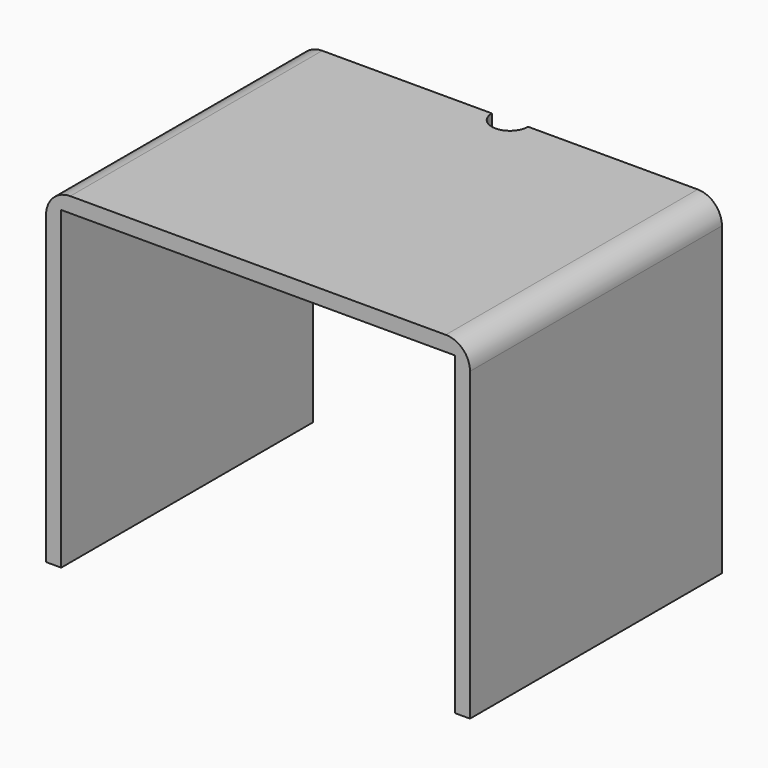
from build123d import *

# Parameters (mm, degrees)
F0_W     = 3.175
F0_H     = 66.04
F1_DEPTH = 3.175
F2_DEPTH = 66.04
F3_R     = 5.08


with BuildPart() as f1:
    # F0 (on Top) → F1 (new body)
    with BuildSketch(Plane.XY):
        with Locations((42.8625, 0)):
            Rectangle(F0_W, F0_H)
        with Locations((-42.8625, 0)):
            Rectangle(F0_W, F0_H)
        with BuildLine():
            Line((41.275, -33.02), (41.275, 33.02))
            Line((41.275, 33.02), (3.81, 33.02))
            ThreePointArc((3.81, 33.02), (0, 29.21), (-3.81, 33.02))
            Line((-3.81, 33.02), (-41.275, 33.02))
            Line((-41.275, 33.02), (-41.275, -33.02))
            Line((-41.275, -33.02), (41.275, -33.02))
        make_face()
    extrude(amount=F1_DEPTH)

    # F0 (on Top) → F2 (join)
    with BuildSketch(Plane.XY):
        with Locations((-42.8625, 0)):
            Rectangle(F0_W, F0_H)
        with Locations((42.8625, 0)):
            Rectangle(F0_W, F0_H)
    extrude(amount=-F2_DEPTH)

    # F3
    f3_edges = [f1.edges().sort_by_distance(p)[0] for p in [
        (-44.45, 0, 3.175),
        (44.45, 0, 3.175),
    ]]
    fillet(f3_edges, radius=F3_R)


solid = f1.part
